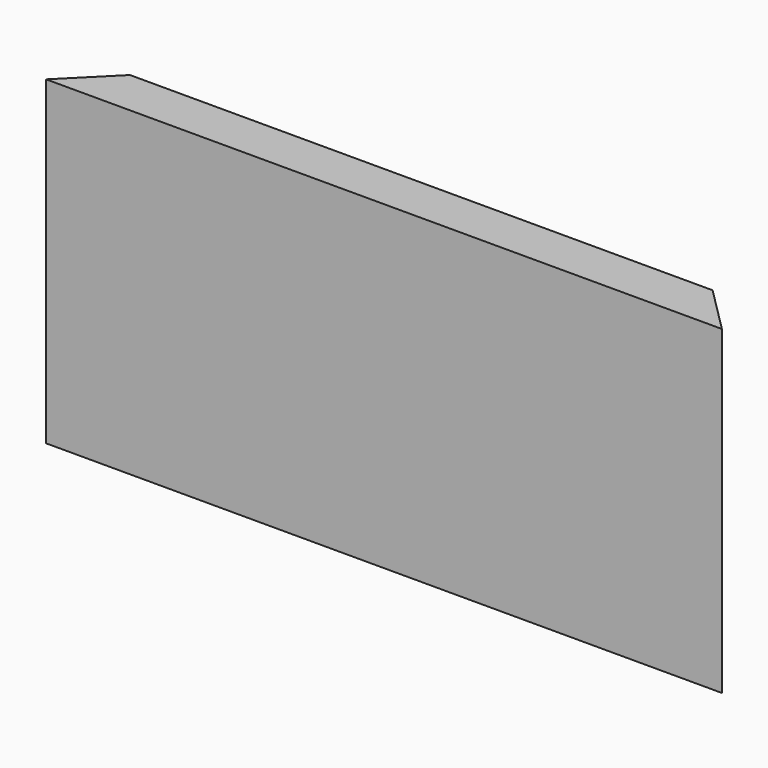
from build123d import *

# Parameters (mm, degrees)
F1_DEPTH = 55
F2_W     = 4
F2_H     = 5
F3_DEPTH = 58


with BuildPart() as f1:
    # F0 (on Top) → F1 (new body)
    with BuildSketch(Plane.XY):
        Polygon((-50, 4), (-58, -4), (58, -4), (50, 4), align=None)
    extrude(amount=F1_DEPTH)

    # F2 (on Right) → F3 (cut, symmetric)
    with BuildSketch(Plane.YZ):
        with Locations((2, 7.5)):
            Rectangle(F2_W, F2_H)
    extrude(amount=F3_DEPTH, both=True, mode=Mode.SUBTRACT)


solid = f1.part
